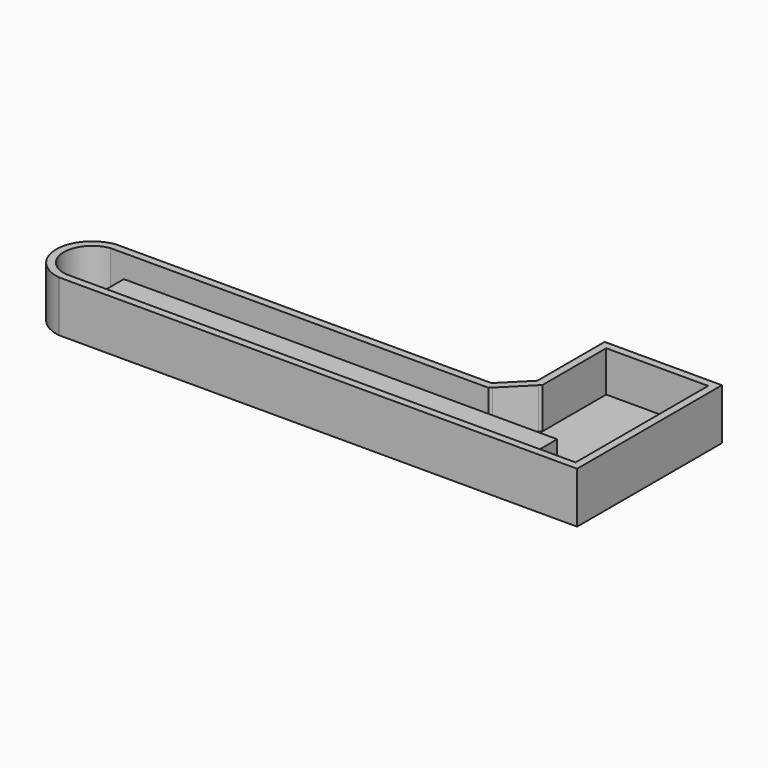
from build123d import *

# Parameters (mm, degrees)
F1_DEPTH = 10
F2_DEPTH = 7.5
F3_DEPTH = 2


with BuildPart() as f1:
    # F0 (on Top) → F1 (new body)
    with BuildSketch(Plane.XY):
        with BuildLine():
            Line((-138.109595, 13.359751), (-138.318843, 13.345084))
            ThreePointArc((-138.318843, 13.345084), (-144.389084, 6.359751), (-138.318843, -0.625583))
            Line((-138.318843, -0.625583), (-138.109595, -0.640249))
            Line((-138.109595, -0.640249), (-36.609595, -0.640249))
            Line((-36.609595, -0.640249), (-36.609595, 18.359751))
            Line((-36.609595, 18.359751), (-36.609595, 23.981071))
            Line((-36.609595, 23.981071), (-36.609595, 33.359751))
            Line((-36.609595, 33.359751), (-36.609595, 34.859751))
            Line((-36.609595, 34.859751), (-38.109595, 34.859751))
            Line((-38.109595, 34.859751), (-58.109595, 34.859751))
            Line((-58.109595, 34.859751), (-59.609595, 34.859751))
            Line((-59.609595, 34.859751), (-59.609595, 33.359751))
            Line((-59.609595, 33.359751), (-59.609595, 23.981071))
            Line((-59.609595, 23.981071), (-59.609595, 18.359751))
            Line((-59.609595, 18.359751), (-64.609595, 13.359751))
            Line((-64.609595, 13.359751), (-64.920255, 13.359751))
            Line((-64.920255, 13.359751), (-70.230915, 13.359751))
            Line((-70.230915, 13.359751), (-138.109595, 13.359751))
        make_face()
        with BuildLine():
            Line((-38.109595, 0.859751), (-133.109595, 0.859751))
            Line((-133.109595, 0.859751), (-138.109595, 0.859751))
            ThreePointArc((-138.109595, 0.859751), (-142.889084, 6.359751), (-138.109595, 11.859751))
            Line((-138.109595, 11.859751), (-133.109595, 11.859751))
            Line((-133.109595, 11.859751), (-69.609595, 11.859751))
            Line((-69.609595, 11.859751), (-63.988274, 11.859751))
            Line((-63.988274, 11.859751), (-63.548934, 12.29909))
            Line((-63.548934, 12.29909), (-58.548934, 17.29909))
            Line((-58.548934, 17.29909), (-58.109595, 17.73843))
            Line((-58.109595, 17.73843), (-58.109595, 23.359751))
            Line((-58.109595, 23.359751), (-58.109595, 33.359751))
            Line((-58.109595, 33.359751), (-48.109595, 33.359751))
            Line((-48.109595, 33.359751), (-38.109595, 33.359751))
            Line((-38.109595, 33.359751), (-38.109595, 0.859751))
        make_face(mode=Mode.SUBTRACT)
    extrude(amount=F1_DEPTH)


with BuildPart() as f2:
    # F0 (on Top) → F2 (new body)
    with BuildSketch(Plane.XY):
        Polygon((-133.109595, 8.859751), (-133.109595, 6.359751), (-133.109595, 3.859751), (-48.109595, 3.859751), (-48.109595, 8.859751), align=None)
    extrude(amount=F2_DEPTH)


with BuildPart() as f3:
    # F0 (on Top) → F3 (new body)
    with BuildSketch(Plane.XY):
        with BuildLine():
            Line((-138.109595, 0.859751), (-133.109595, 0.859751))
            Line((-133.109595, 0.859751), (-38.109595, 0.859751))
            Line((-38.109595, 0.859751), (-38.109595, 33.359751))
            Line((-38.109595, 33.359751), (-48.109595, 33.359751))
            Line((-48.109595, 33.359751), (-58.109595, 33.359751))
            Line((-58.109595, 33.359751), (-58.109595, 23.359751))
            Line((-58.109595, 23.359751), (-58.109595, 17.73843))
            Line((-58.109595, 17.73843), (-58.548934, 17.29909))
            Line((-58.548934, 17.29909), (-63.548934, 12.29909))
            Line((-63.548934, 12.29909), (-63.988274, 11.859751))
            Line((-63.988274, 11.859751), (-69.609595, 11.859751))
            Line((-69.609595, 11.859751), (-133.109595, 11.859751))
            Line((-133.109595, 11.859751), (-138.109595, 11.859751))
            ThreePointArc((-138.109595, 11.859751), (-142.889084, 6.359751), (-138.109595, 0.859751))
        make_face()
        Polygon((-133.109595, 3.859751), (-133.109595, 6.359751), (-133.109595, 8.859751), (-48.109595, 8.859751), (-48.109595, 3.859751), align=None, mode=Mode.SUBTRACT)
    extrude(amount=F3_DEPTH)


solid = Compound([f1.part, f2.part, f3.part])
